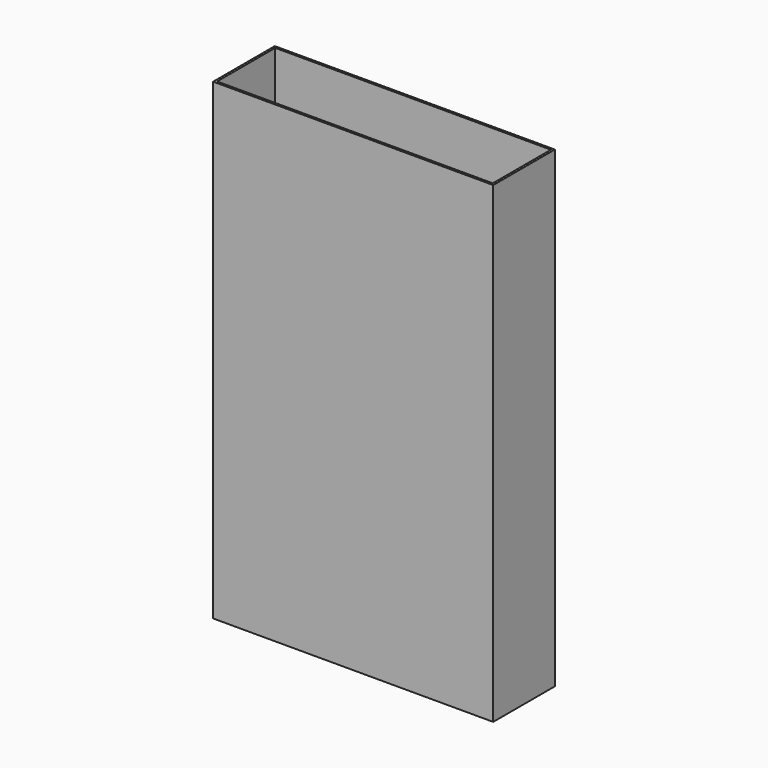
from build123d import *

# Parameters (mm, degrees)
F0_W     = 320
F0_H     = 540
F1_DEPTH = 88
F2_T     = -2.5


with BuildPart() as f1:
    # F0 (on Front) → F1 (new body)
    with BuildSketch(Plane.XZ):
        with Locations((0, 270)):
            Rectangle(F0_W, F0_H)
    extrude(amount=F1_DEPTH)

    # F2
    f2_openings = [f1.faces().sort_by_distance(p)[0] for p in [
        (0, -44, 540),
        (0, -44, 0),
    ]]
    offset(amount=F2_T, openings=f2_openings)


solid = f1.part
